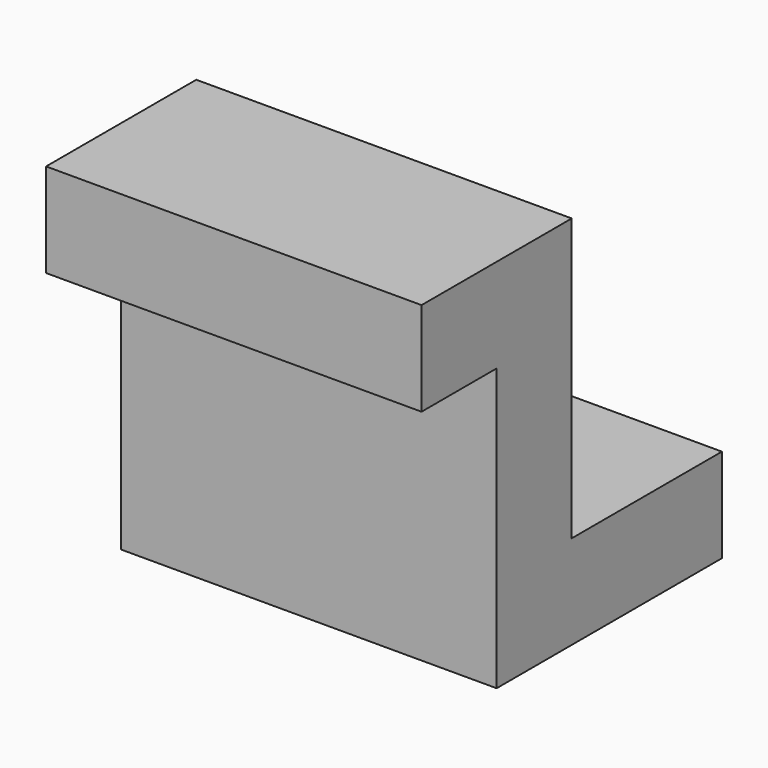
from build123d import *

# Parameters (mm, degrees)
F0_W     = 101.6
F0_H     = 101.6
F1_DEPTH = 101.6
F2_W     = 25.4
F2_H     = 76.2
F2_W_2   = 50.8
F3_DEPTH = 121.92


with BuildPart() as f1:
    # F0 (on Top) → F1 (new body)
    with BuildSketch(Plane.XY):
        with Locations((-50.8, -50.8)):
            Rectangle(F0_W, F0_H)
    extrude(amount=F1_DEPTH)

    # F2 (on face) → F3 (cut)
    with BuildSketch(Plane.YZ):
        with Locations((-88.9, 38.1)):
            Rectangle(F2_W, F2_H)
        with Locations((-25.4, 63.5)):
            Rectangle(F2_W_2, F2_H)
    extrude(amount=-F3_DEPTH, mode=Mode.SUBTRACT)


solid = f1.part
